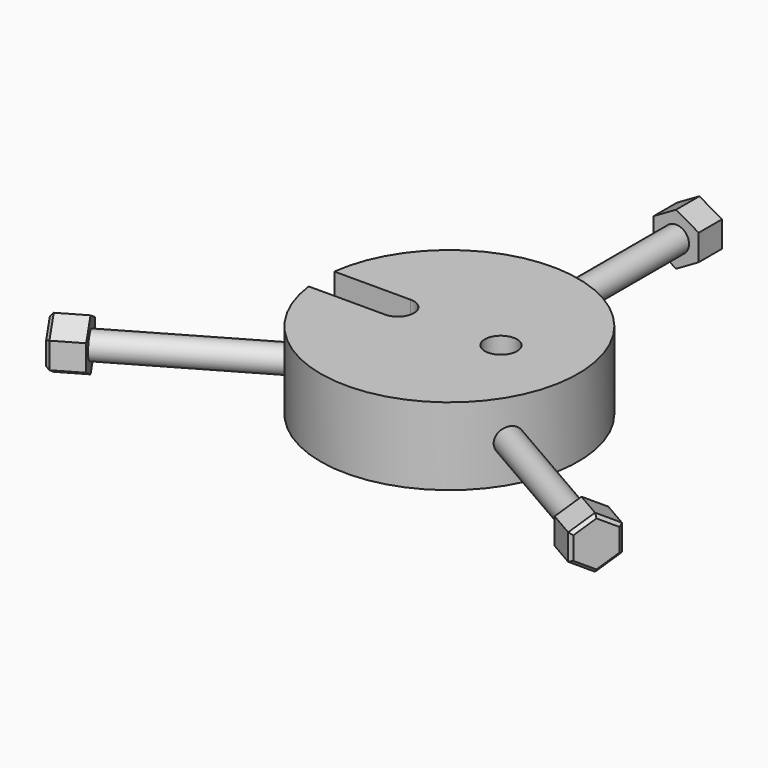
from build123d import *

# Parameters (mm, degrees)
F0_R     = 3.96875
F1_DEPTH = 19.05
F2_R     = 3.175
F3_DEPTH = 69.85
F5_DEPTH = 7.9248
F6_SIZE  = 0.762
F7_COUNT = 3


with BuildPart() as f1:
    # F0 (on Top) → F1 (new body)
    with BuildSketch(Plane.XY):
        with BuildLine():
            Line((-12.7, -3.9624), (-31.501776, -3.9624))
            ThreePointArc((-31.501776, -3.9624), (31.75, 0), (-31.501776, 3.9624))
            Line((-31.501776, 3.9624), (-12.7, 3.9624))
            ThreePointArc((-12.7, 3.9624), (-8.7376, 0), (-12.7, -3.9624))
        make_face()
        with Locations((12.7, 0)):
            Circle(F0_R, mode=Mode.SUBTRACT)
    extrude(amount=F1_DEPTH)


with BuildPart() as f3:
    # F2 (on Front) → F3 (new body)
    with BuildSketch(Plane.XZ):
        with Locations((0, 9.525)):
            Circle(F2_R)
    extrude(amount=-F3_DEPTH)

    # F4 (on face) → F5 (join)
    with BuildSketch(Plane(origin=(0, 69.85, 0), x_dir=(-1, 0, 0), z_dir=(0, 1, 0))):
        Polygon((5.5499, 6.320764), (5.5499, 12.729236), (0, 15.933473), (-5.5499, 12.729236), (-5.5499, 6.320764), (0, 3.116527), align=None)
    extrude(amount=F5_DEPTH)

    # F6
    f6_edges = [f3.edges().sort_by_distance(p)[0] for p in [
        (-2.77495, 77.7748, 4.718646),
        (-5.5499, 77.7748, 9.525),
        (-2.77495, 77.7748, 14.331354),
        (2.77495, 77.7748, 14.331354),
        (5.5499, 77.7748, 9.525),
        (2.77495, 77.7748, 4.718646),
    ]]
    chamfer(f6_edges, length=F6_SIZE)


with BuildPart() as f7_1:
    # F7: instance of F3
    add(f3.part.rotate(Axis((0, 0, 0), (0, 0, -1)), 1 * 360 / F7_COUNT))


with BuildPart() as f7_2:
    # F7: instance of F3
    add(f3.part.rotate(Axis((0, 0, 0), (0, 0, -1)), 2 * 360 / F7_COUNT))


solid = Compound([f1.part, f3.part, f7_1.part, f7_2.part])
